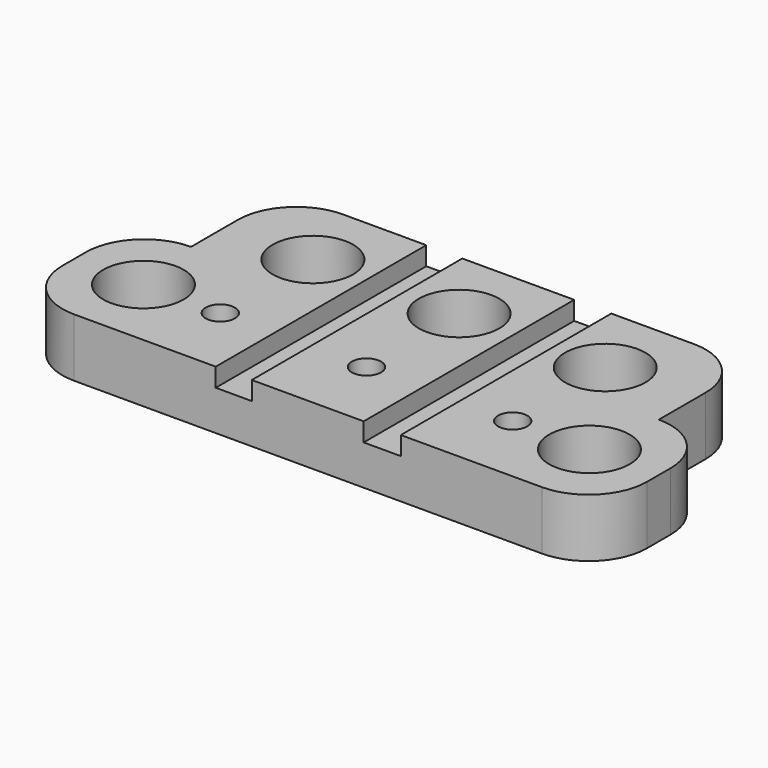
from build123d import *

# Parameters (mm, degrees)
F0_W      = 20
F0_H      = 5
F1_DEPTH  = 2
F2_R      = 2
F3_W      = 16
F3_H      = 2
F4_DEPTH  = 4
F5_R      = 2
F6_R      = 0.5
F7_DEPTH  = 2.001
F8_R      = 1.376408
F9_DEPTH  = 2.001
F11_W     = 1.233603
F11_H     = 9
F10_W     = 1.27
F10_H     = 9
F12_DEPTH = 0.635


with BuildPart() as f1:
    # F0 (on Top) → F1 (new body)
    with BuildSketch(Plane.XY):
        Rectangle(F0_W, F0_H)
    extrude(amount=F1_DEPTH)

    # F2
    f2_edges = [f1.edges().sort_by_distance(p)[0] for p in [
        (-10, -2.5, 1),
        (-10, 2.5, 1),
        (10, 2.5, 1),
        (10, -2.5, 1),
    ]]
    fillet(f2_edges, radius=F2_R)

    # F3 (on face) → F4 (join)
    with BuildSketch(Plane(origin=(0, 2.5, 0), x_dir=(-1, 0, 0), z_dir=(0, 1, 0))):
        with Locations((0, 1)):
            Rectangle(F3_W, F3_H)
    extrude(amount=F4_DEPTH)

    # F5
    f5_edges = [f1.edges().sort_by_distance(p)[0] for p in [
        (-8, 6.5, 1),
        (8, 6.5, 1),
    ]]
    fillet(f5_edges, radius=F5_R)

    # F6 (on face) → F7 (cut, through all)
    with BuildSketch(Plane.XY.offset(2)):
        Circle(F6_R)
        with Locations((-5, 0)):
            Circle(F6_R)
        with Locations((5, 0)):
            Circle(F6_R)
    extrude(amount=-F7_DEPTH, mode=Mode.SUBTRACT)

    # F8 (on face) → F9 (cut, through all)
    with BuildSketch(Plane.XY.offset(2)):
        with Locations((-7.627351, 0)):
            Circle(F8_R)
        with Locations((7.627366, 0)):
            Circle(F8_R)
        with Locations((-5, 3.96)):
            Circle(F8_R)
        with Locations((0, 3.96)):
            Circle(F8_R)
        with Locations((5, 3.96)):
            Circle(F8_R)
    extrude(amount=-F9_DEPTH, mode=Mode.SUBTRACT)

    # F11 (on face) + F10 (on face) → F12 (cut)
    with BuildSketch(Plane.XY.offset(2)):
        with Locations((-2.538401, 2)):
            Rectangle(F11_W, F11_H)
    with BuildSketch(Plane.XY.offset(2)):
        with Locations((2.54, 2)):
            Rectangle(F10_W, F10_H)
    extrude(amount=-F12_DEPTH, mode=Mode.SUBTRACT)


solid = f1.part
